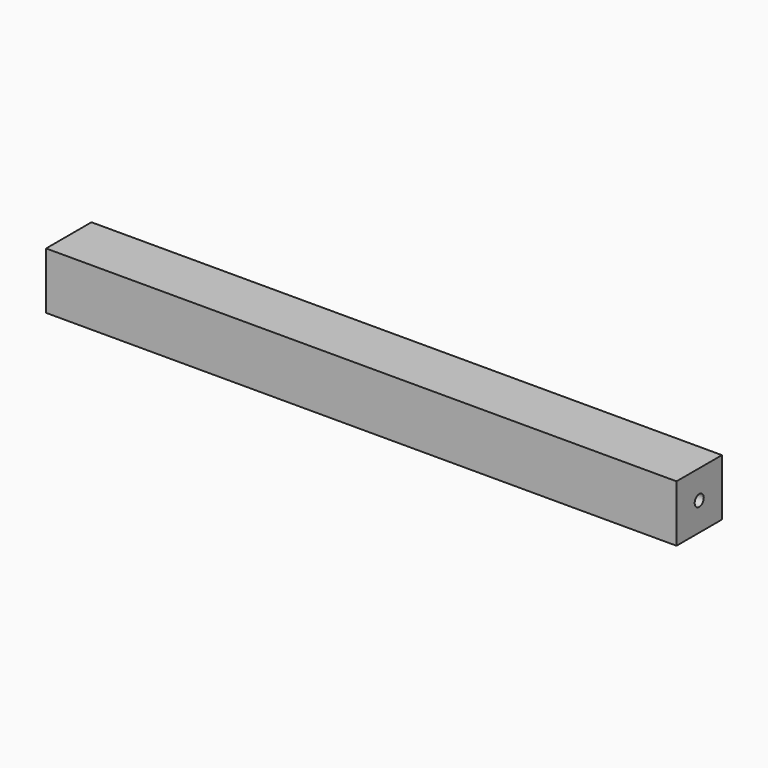
from build123d import *

# Parameters (mm, degrees)
F0_W     = 45
F0_H     = 45
F0_R     = 4.5
F1_DEPTH = 500
F3_D     = 6
F3_DEPTH = 4
F3_TIP   = 1.8025818571


with BuildPart() as f1:
    # F0 (on Right) → F1 (new body)
    with BuildSketch(Plane.YZ):
        Rectangle(F0_W, F0_H)
        Circle(F0_R, mode=Mode.SUBTRACT)
    extrude(amount=-F1_DEPTH)

    # F3
    with Locations(Plane(origin=(0, 0, -22.5), x_dir=(1, 0, 0), z_dir=(0, 0, -1))):
        with Locations((-50, 0), (-450, 0)):
            Hole(F3_D / 2, depth=F3_DEPTH)
            with Locations((0, 0, -(F3_DEPTH + F3_TIP / 2))):  # 118° drill point
                Cone(0, F3_D / 2, F3_TIP, mode=Mode.SUBTRACT)


solid = f1.part
